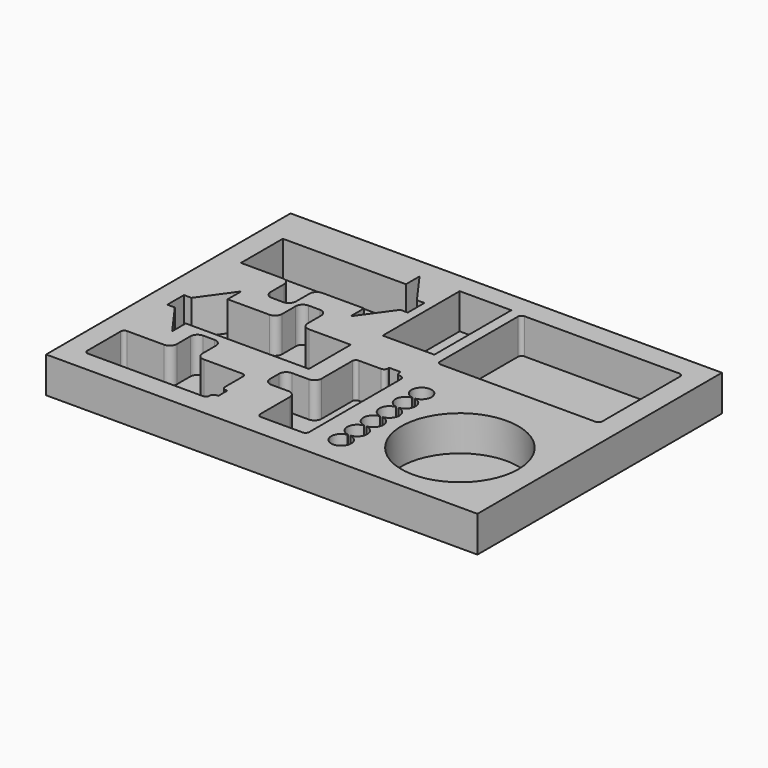
from build123d import *

# Parameters (mm, degrees)
F0_W      = 304.8
F0_H      = 215.9
F1_DEPTH  = 25.4
F5_R      = 41.275
F8_W      = 36.5
F8_H      = 68
F10_DEPTH = 25


with BuildPart() as f1:
    # F0 (on Top) → F1 (new body)
    with BuildSketch(Plane.XY):
        with Locations((17.103421, -21.658359)):
            Rectangle(F0_W, F0_H)
    extrude(amount=F1_DEPTH)

    # F0 (on Top) + F2 (on face) + F3 (on face) + F4 (on face) + F5 (on face) + F6 (on face) + F7 (on face) + F8 (on face) + F9 (on face) → F10 (cut)
    with BuildSketch(Plane.XY):
        with Locations((17.103421, -21.658359)):
            Rectangle(F0_W, F0_H)
    with BuildSketch(Plane.XY.offset(25.4)):
        with BuildLine():
            Line((1.455991, -85.278079), (1.455991, -111.389279))
            ThreePointArc((1.455991, -111.389279), (2.19994, -113.18533), (3.995991, -113.929279))
            Line((3.995991, -113.929279), (33.459991, -113.929279))
            ThreePointArc((33.459991, -113.929279), (35.256042, -113.18533), (35.999991, -111.389279))
            Line((35.999991, -111.389279), (35.999991, -30.109279))
            ThreePointArc((35.999991, -30.109279), (35.256042, -28.313228), (33.459991, -27.569279))
            Line((33.459991, -27.569279), (33.129791, -27.569279))
            ThreePointArc((33.129791, -27.569279), (31.297819, -26.810451), (30.538991, -24.978479))
            Line((30.538991, -24.978479), (30.538991, -23.759279))
            Line((30.538991, -23.759279), (22.410991, -23.759279))
            Line((22.410991, -23.759279), (22.410991, -24.978479))
            ThreePointArc((22.410991, -24.978479), (21.652163, -26.810451), (19.820191, -27.569279))
            Line((19.820191, -27.569279), (3.995991, -27.569279))
            ThreePointArc((3.995991, -27.569279), (2.19994, -28.313228), (1.455991, -30.109279))
            Line((1.455991, -30.109279), (1.455991, -57.236479))
            ThreePointArc((1.455991, -57.236479), (-0.009588, -60.7747), (-3.547809, -62.240279))
            Line((-3.547809, -62.240279), (-15.536609, -62.240279))
            ThreePointArc((-15.536609, -62.240279), (-19.07483, -63.705858), (-20.540409, -67.244079))
            Line((-20.540409, -67.244079), (-20.540409, -75.270479))
            ThreePointArc((-20.540409, -75.270479), (-19.07483, -78.8087), (-15.536609, -80.274279))
            Line((-15.536609, -80.274279), (-3.547809, -80.274279))
            ThreePointArc((-3.547809, -80.274279), (-0.009588, -81.739858), (1.455991, -85.278079))
        make_face()
    with BuildSketch(Plane.XY.offset(25.4)):
        with BuildLine():
            Line((-98.282373, -52.532049), (-11.282373, -52.532049))
            Line((-11.282373, -52.532049), (-11.282373, -15.532049))
            Line((-11.282373, -15.532049), (-40.782373, -15.532049))
            ThreePointArc((-40.782373, -15.532049), (-44.317906, -14.067583), (-45.782373, -10.532049))
            Line((-45.782373, -10.532049), (-45.782373, 1.467951))
            ThreePointArc((-45.782373, 1.467951), (-47.246839, 5.003485), (-50.782373, 6.467951))
            Line((-50.782373, 6.467951), (-58.782373, 6.467951))
            ThreePointArc((-58.782373, 6.467951), (-62.317906, 5.003485), (-63.782373, 1.467951))
            Line((-63.782373, 1.467951), (-63.782373, -10.532049))
            ThreePointArc((-63.782373, -10.532049), (-65.246839, -14.067583), (-68.782373, -15.532049))
            Line((-68.782373, -15.532049), (-98.282373, -15.532049))
            Line((-98.282373, -15.532049), (-98.282373, -3.532049))
            Line((-98.282373, -3.532049), (-114.939746, -26.682049))
            Line((-114.939746, -26.682049), (-120.228373, -26.682049))
            Line((-120.228373, -26.682049), (-120.228373, -34.032049))
            Line((-120.228373, -34.032049), (-120.228373, -41.382049))
            Line((-120.228373, -41.382049), (-114.939746, -41.382049))
            Line((-114.939746, -41.382049), (-98.282373, -64.532049))
            Line((-98.282373, -64.532049), (-98.282373, -52.532049))
        make_face()
    with BuildSketch(Plane.XY.offset(25.4)):
        with BuildLine():
            Line((151.751869, 70.914), (42.277869, 70.914))
            ThreePointArc((42.277869, 70.914), (40.481818, 70.170051), (39.737869, 68.374))
            Line((39.737869, 68.374), (39.737869, -0.46))
            ThreePointArc((39.737869, -0.46), (40.481818, -2.256051), (42.277869, -3))
            Line((42.277869, -3), (151.751869, -3))
            ThreePointArc((151.751869, -3), (153.54792, -2.256051), (154.291869, -0.46))
            Line((154.291869, -0.46), (154.291869, 68.374))
            ThreePointArc((154.291869, 68.374), (153.54792, 70.170051), (151.751869, 70.914))
        make_face()
    with BuildSketch(Plane.XY.offset(25.4)):
        with Locations((112.600401, -74.001856)):
            Circle(F5_R)
    with BuildSketch(Plane.XY.offset(25.4)):
        with BuildLine():
            Line((-91.696568, -79.872966), (-117.807768, -79.872966))
            ThreePointArc((-117.807768, -79.872966), (-119.603819, -80.616915), (-120.347768, -82.412966))
            Line((-120.347768, -82.412966), (-120.347768, -111.876966))
            ThreePointArc((-120.347768, -111.876966), (-119.603819, -113.673017), (-117.807768, -114.416966))
            Line((-117.807768, -114.416966), (-36.527768, -114.416966))
            ThreePointArc((-36.527768, -114.416966), (-34.731717, -113.673017), (-33.987768, -111.876966))
            Line((-33.987768, -111.876966), (-33.987768, -111.546766))
            ThreePointArc((-33.987768, -111.546766), (-33.22894, -109.714794), (-31.396968, -108.955966))
            Line((-31.396968, -108.955966), (-30.177768, -108.955966))
            Line((-30.177768, -108.955966), (-30.177768, -100.827966))
            Line((-30.177768, -100.827966), (-31.396968, -100.827966))
            ThreePointArc((-31.396968, -100.827966), (-33.22894, -100.069138), (-33.987768, -98.237166))
            Line((-33.987768, -98.237166), (-33.987768, -82.412966))
            ThreePointArc((-33.987768, -82.412966), (-34.731717, -80.616915), (-36.527768, -79.872966))
            Line((-36.527768, -79.872966), (-63.654968, -79.872966))
            ThreePointArc((-63.654968, -79.872966), (-67.193189, -78.407387), (-68.658768, -74.869166))
            Line((-68.658768, -74.869166), (-68.658768, -62.880366))
            ThreePointArc((-68.658768, -62.880366), (-70.124347, -59.342145), (-73.662568, -57.876566))
            Line((-73.662568, -57.876566), (-81.688968, -57.876566))
            ThreePointArc((-81.688968, -57.876566), (-85.227189, -59.342145), (-86.692768, -62.880366))
            Line((-86.692768, -62.880366), (-86.692768, -74.869166))
            ThreePointArc((-86.692768, -74.869166), (-88.158347, -78.407387), (-91.696568, -79.872966))
        make_face()
    with BuildSketch(Plane.XY.offset(25.4)):
        with BuildLine():
            Line((56.581123, -43.780106), (56.581123, -43.537542))
            ThreePointArc((56.581123, -43.537542), (55.581123, -29.508824), (54.581123, -43.537542))
            Line((54.581123, -43.537542), (54.581123, -43.780106))
            ThreePointArc((54.581123, -43.780106), (48.531123, -50.758824), (54.581123, -57.737542))
            Line((54.581123, -57.737542), (54.581123, -57.980106))
            ThreePointArc((54.581123, -57.980106), (48.531123, -64.958824), (54.581123, -71.937542))
            Line((54.581123, -71.937542), (54.581123, -72.180106))
            ThreePointArc((54.581123, -72.180106), (48.531123, -79.158824), (54.581123, -86.137542))
            Line((54.581123, -86.137542), (54.581123, -86.380106))
            ThreePointArc((54.581123, -86.380106), (48.531123, -93.358824), (54.581123, -100.337542))
            Line((54.581123, -100.337542), (54.581123, -100.580106))
            ThreePointArc((54.581123, -100.580106), (55.581123, -114.608824), (56.581123, -100.580106))
            Line((56.581123, -100.580106), (56.581123, -100.337542))
            ThreePointArc((56.581123, -100.337542), (62.631123, -93.358824), (56.581123, -86.380106))
            Line((56.581123, -86.380106), (56.581123, -86.137542))
            ThreePointArc((56.581123, -86.137542), (62.631123, -79.158824), (56.581123, -72.180106))
            Line((56.581123, -72.180106), (56.581123, -71.937542))
            ThreePointArc((56.581123, -71.937542), (62.631123, -64.958824), (56.581123, -57.980106))
            Line((56.581123, -57.980106), (56.581123, -57.737542))
            ThreePointArc((56.581123, -57.737542), (62.631123, -50.758824), (56.581123, -43.780106))
        make_face()
    with BuildSketch(Plane.XY.offset(25.4)):
        with Locations((13.897042, 38)):
            Rectangle(F8_W, F8_H)
    with BuildSketch(Plane.XY.offset(25.4)):
        with BuildLine():
            Line((-32.676903, 59.959536), (-119.676903, 59.959536))
            Line((-119.676903, 59.959536), (-119.676903, 22.959536))
            Line((-119.676903, 22.959536), (-90.176903, 22.959536))
            ThreePointArc((-90.176903, 22.959536), (-86.641369, 21.49507), (-85.176903, 17.959536))
            Line((-85.176903, 17.959536), (-85.176903, 5.959536))
            ThreePointArc((-85.176903, 5.959536), (-83.712437, 2.424002), (-80.176903, 0.959536))
            Line((-80.176903, 0.959536), (-72.176903, 0.959536))
            ThreePointArc((-72.176903, 0.959536), (-68.641369, 2.424002), (-67.176903, 5.959536))
            Line((-67.176903, 5.959536), (-67.176903, 17.959536))
            ThreePointArc((-67.176903, 17.959536), (-65.712437, 21.49507), (-62.176903, 22.959536))
            Line((-62.176903, 22.959536), (-32.676903, 22.959536))
            Line((-32.676903, 22.959536), (-32.676903, 10.959536))
            Line((-32.676903, 10.959536), (-16.019529, 34.109536))
            Line((-16.019529, 34.109536), (-10.730903, 34.109536))
            Line((-10.730903, 34.109536), (-10.730903, 41.459536))
            Line((-10.730903, 41.459536), (-10.730903, 48.809536))
            Line((-10.730903, 48.809536), (-16.019529, 48.809536))
            Line((-16.019529, 48.809536), (-32.676903, 71.959536))
            Line((-32.676903, 71.959536), (-32.676903, 59.959536))
        make_face()
    extrude(amount=-F10_DEPTH, mode=Mode.SUBTRACT)


solid = f1.part
